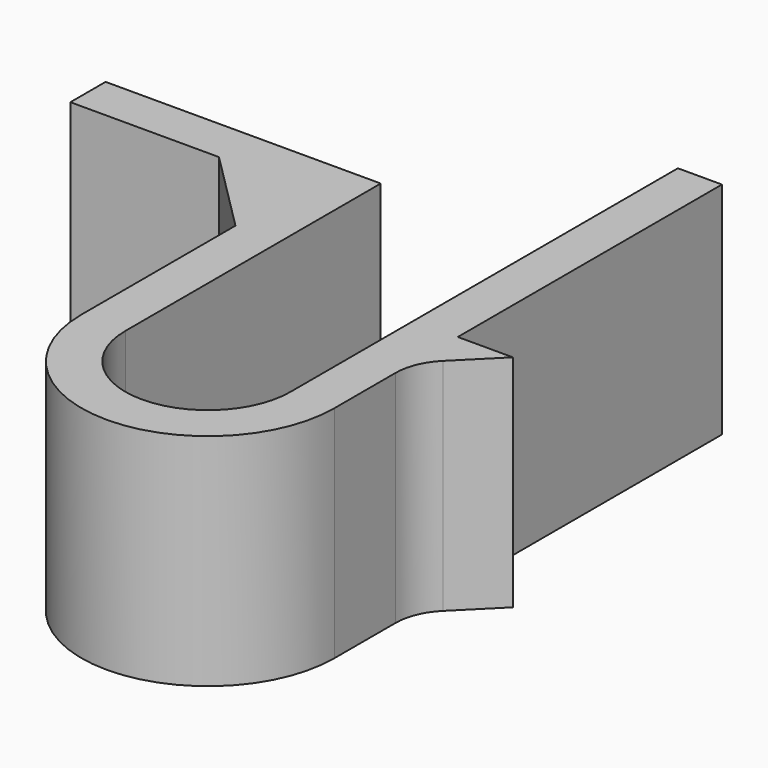
from build123d import *

# Parameters (mm, degrees)
F0_W     = 1.6
F0_H     = 10
F1_DEPTH = 8
F2_R     = 2
F3_SIZE  = 3


with BuildPart() as f1:
    # F0 (on Top) → F1 (new body)
    with BuildSketch(Plane.XY):
        Polygon((9.2, 5.6), (9.2, 3.6), (11.2, 5.6), align=None)
        Polygon((7.6, 0), (9.2, 0), (9.2, 3.6), (9.2, 5.6), (9.2, 17.6), (7.6, 17.6), align=None)
        with BuildLine():
            Line((1.6, 0), (0, 0))
            ThreePointArc((0, 0), (4.6, -4.6), (9.2, 0))
            Line((9.2, 0), (7.6, 0))
            ThreePointArc((7.6, 0), (4.6, -3), (1.6, 0))
        make_face()
        with Locations((0.8, 5)):
            Rectangle(F0_W, F0_H)
        Polygon((-8.4, 10), (0, 10), (1.6, 10), (1.6, 11.6), (-8.4, 11.6), align=None)
    extrude(amount=F1_DEPTH)

    # F2
    f2_edges = [f1.edges().sort_by_distance(p)[0] for p in [
        (9.2, 3.6, 4),
    ]]
    fillet(f2_edges, radius=F2_R)

    # F3
    f3_edges = [f1.edges().sort_by_distance(p)[0] for p in [
        (0, 10, 4),
    ]]
    chamfer(f3_edges, length=F3_SIZE)


solid = f1.part
